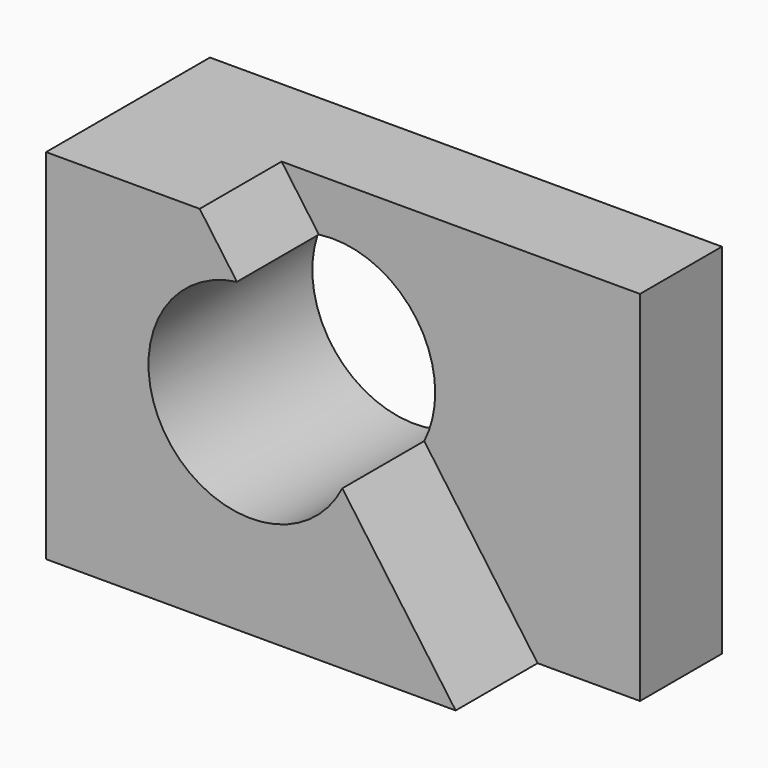
from build123d import *

# Parameters (mm, degrees)
F0_W     = 63.5
F0_H     = 25.4
F1_DEPTH = 44.45
F3_DEPTH = 12.7
F4_R     = 12.7
F5_DEPTH = 25.4


with BuildPart() as f1:
    # F0 (on Top) → F1 (new body)
    with BuildSketch(Plane.XY):
        with Locations((31.761975, -13.241348)):
            Rectangle(F0_W, F0_H)
    extrude(amount=F1_DEPTH)

    # F2 (on face) → F3 (cut)
    with BuildSketch(Plane.XZ.offset(25.941348)):
        Polygon((63.511975, 44.45), (19.061975, 44.45), (50.811975, 0), (63.511975, 0), align=None)
    extrude(amount=-F3_DEPTH, mode=Mode.SUBTRACT)

    # F4 (on face) → F5 (cut)
    with BuildSketch(Plane.XZ.offset(25.941348)):
        with Locations((25.411975, 25.4)):
            Circle(F4_R)
    extrude(amount=-F5_DEPTH, mode=Mode.SUBTRACT)


solid = f1.part
